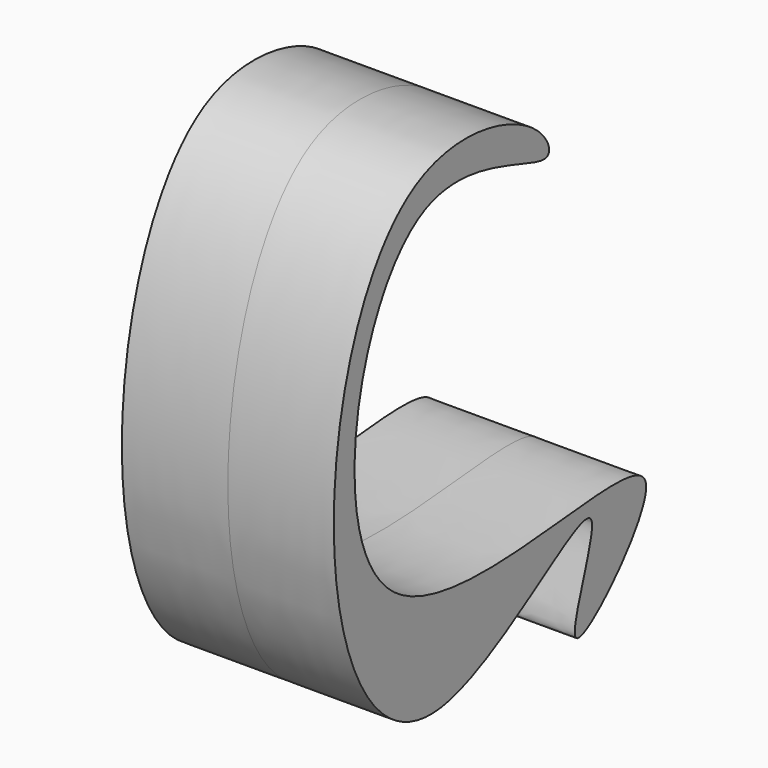
from build123d import *

# Parameters (mm, degrees)
F1_DEPTH = 25


with BuildPart() as f1:
    # F0 (on Right) → F1 (new body, symmetric)
    with BuildSketch(Plane.YZ):
        with BuildLine():
            add(Edge.make_bspline(
                [(0, 52.0998500288), (-6.9512762022, 58.3719006245), (-48.1382594912, 68.8376915247), (-70.041090881, -17.3927016363), (-35.0474009382, -76.8888216313), (30.0029587567, -13.5305657672), (-1.5218579799, -76.3760974123), (62.3023685223, -11.2463723442), (-72.5101454477, -60.607767716), (-47.3251839666, 73.310025495), (6.8666988042, 39.0360869846), (3.0432224343, 49.3539880421), (0, 52.0998500288)],
                knots=[0, 0, 0, 0, 0.0923218358, 0.2266638104, 0.33428057, 0.4411737865, 0.5150138445, 0.6010419846, 0.7331415163, 0.8668052483, 0.959582115, 1, 1, 1, 1], degree=3))
        make_face()
    extrude(amount=F1_DEPTH, both=True)


solid = f1.part
